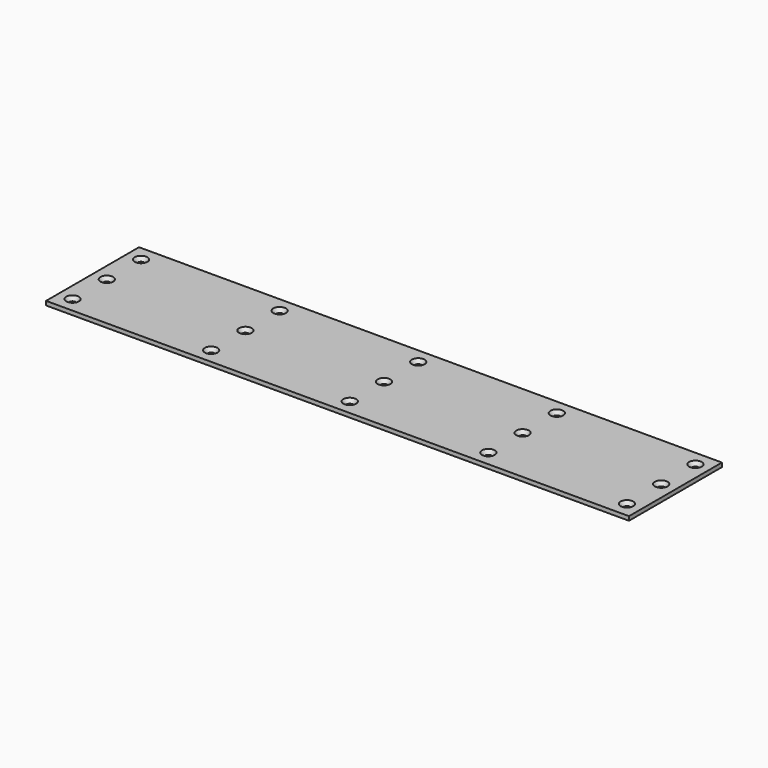
from build123d import *

# Parameters (mm, degrees)
F0_W           = 908.05
F0_H           = 180.975
F1_DEPTH       = 3.175
F3_D           = 10.0838
F3_CSINK_D     = 19.8374
F3_CSINK_ANGLE = 82


with BuildPart() as f1:
    # F0 (on Top) → F1 (new body, symmetric)
    with BuildSketch(Plane.XY):
        Rectangle(F0_W, F0_H)
    extrude(amount=F1_DEPTH, both=True)

    # F3 (through all)
    with Locations(Plane.XY.offset(3.175)):
        with Locations((-431.8, 66.675), (-431.8, 0), (-431.8, -66.675), (-215.9, -66.675), (-215.9, 0), (-215.9, 66.675), (0, 66.675), (0, 0), (0, -66.675), (215.9, -66.675), (215.9, 0), (215.9, 66.675), (431.8, 66.675), (431.8, 0), (431.8, -66.675)):
            CounterSinkHole(F3_D / 2, F3_CSINK_D / 2, counter_sink_angle=F3_CSINK_ANGLE)


solid = f1.part
